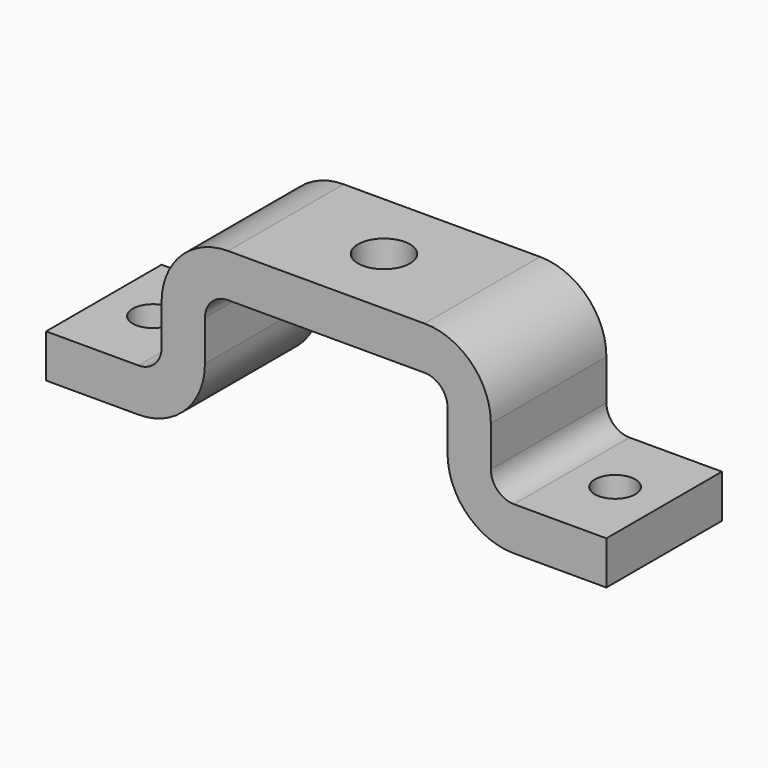
from build123d import *

# Parameters (mm, degrees)
F1_DEPTH = 50
F5_D     = 18
F6_D     = 14
F7_D     = 14


with BuildPart() as f1:
    # F0 (on Front) → F1 (new body)
    with BuildSketch(Plane.XZ):
        with BuildLine():
            Line((0, 15), (0, 0))
            Line((0, 0), (32, 0))
            ThreePointArc((32, 0), (48.2634559673, 6.7365440327), (55, 23))
            Line((55, 23), (55, 37))
            ThreePointArc((55, 37), (57.3431457505, 42.6568542495), (63, 45))
            Line((63, 45), (131, 45))
            ThreePointArc((131, 45), (136.6568542495, 42.6568542495), (139, 37))
            Line((139, 37), (139, 23))
            ThreePointArc((139, 23), (145.7365440327, 6.7365440327), (162, 0))
            Line((162, 0), (194, 0))
            Line((194, 0), (194, 15))
            Line((194, 15), (162, 15))
            ThreePointArc((162, 15), (156.3431457505, 17.3431457505), (154, 23))
            Line((154, 23), (154, 37))
            ThreePointArc((154, 37), (147.2634559673, 53.2634559673), (131, 60))
            Line((131, 60), (63, 60))
            ThreePointArc((63, 60), (46.7365440327, 53.2634559673), (40, 37))
            Line((40, 37), (40, 23))
            ThreePointArc((40, 23), (37.6568542495, 17.3431457505), (32, 15))
            Line((32, 15), (0, 15))
        make_face()
    extrude(amount=F1_DEPTH)

    # F5 (through all)
    with Locations(Plane(origin=(0, 0, 45), x_dir=(1, 0, 0), z_dir=(0, 0, -1))):
        with Locations((97, 25)):
            Hole(F5_D / 2)

    # F6 (through all)
    with Locations(Plane(origin=(0, 0, 0), x_dir=(1, 0, 0), z_dir=(0, 0, -1))):
        with Locations((17, 25)):
            Hole(F6_D / 2)

    # F7 (through all)
    with Locations(Plane(origin=(0, 0, 0), x_dir=(1, 0, 0), z_dir=(0, 0, -1))):
        with Locations((177, 25)):
            Hole(F7_D / 2)


solid = f1.part
